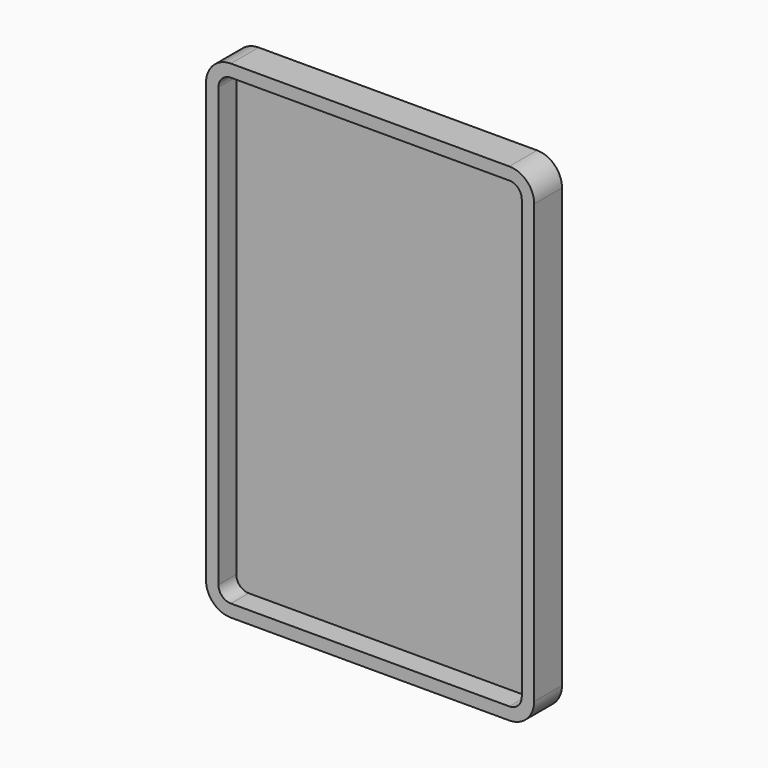
from build123d import *

# Parameters (mm, degrees)
F0_W     = 67.056006
F0_H     = 99.669606
F1_DEPTH = 3.55
F2_R     = 5.08
F3_T     = -2.54


with BuildPart() as f1:
    # F0 (on Front) → F1 (new body, symmetric)
    with BuildSketch(Plane.XZ):
        with Locations((-0.489677, 0)):
            Rectangle(F0_W, F0_H)
    extrude(amount=F1_DEPTH, both=True)

    # F2
    f2_edges = [f1.edges().sort_by_distance(p)[0] for p in [
        (-34.01768, 0, -49.834803),
        (-34.01768, 0, 49.834803),
        (33.038326, 0, -49.834803),
        (33.038326, 0, 49.834803),
    ]]
    fillet(f2_edges, radius=F2_R)

    # F3
    f3_openings = [f1.faces().sort_by_distance(p)[0] for p in [
        (-0.489677, -3.55, 0),
    ]]
    offset(amount=F3_T, openings=f3_openings)


solid = f1.part
